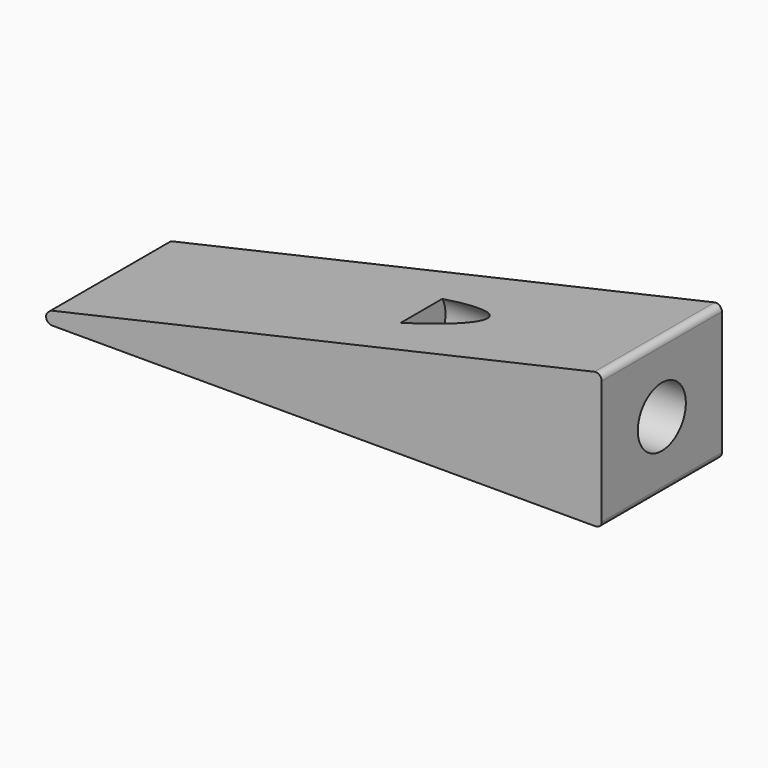
from build123d import *

# Parameters (mm, degrees)
F1_DEPTH = 31.75
F2_R     = 1.27
F3_R     = 6.35
F4_DEPTH = 50.8


with BuildPart() as f1:
    # F0 (on Front) → F1 (new body)
    with BuildSketch(Plane.XZ):
        with BuildLine():
            ThreePointArc((-65.460752, 2.190165), (-65.764729, 0.798677), (-64.585426, 0))
            Line((-64.585426, 0), (51.586725, 0))
            Line((51.586725, 0), (51.586725, 27.440994))
            ThreePointArc((51.586725, 27.440994), (51.109575, 28.433107), (50.036663, 28.679729))
            Line((50.036663, 28.679729), (-64.717408, 2.73533))
            ThreePointArc((-64.717408, 2.73533), (-64.735903, 2.729636), (-64.753319, 2.721199))
            ThreePointArc((-64.753319, 2.721199), (-65.122522, 2.476312), (-65.460752, 2.190165))
        make_face()
    extrude(amount=F1_DEPTH)

    # F2
    f2_edges = [f1.edges().sort_by_distance(p)[0] for p in [
        (51.586725, -15.875, 0),
    ]]
    fillet(f2_edges, radius=F2_R)

    # F3 (on face) → F4 (cut)
    with BuildSketch(Plane.YZ.offset(51.586725)):
        with Locations((-15.875, 14.355497)):
            Circle(F3_R)
    extrude(amount=-F4_DEPTH, mode=Mode.SUBTRACT)


solid = f1.part
